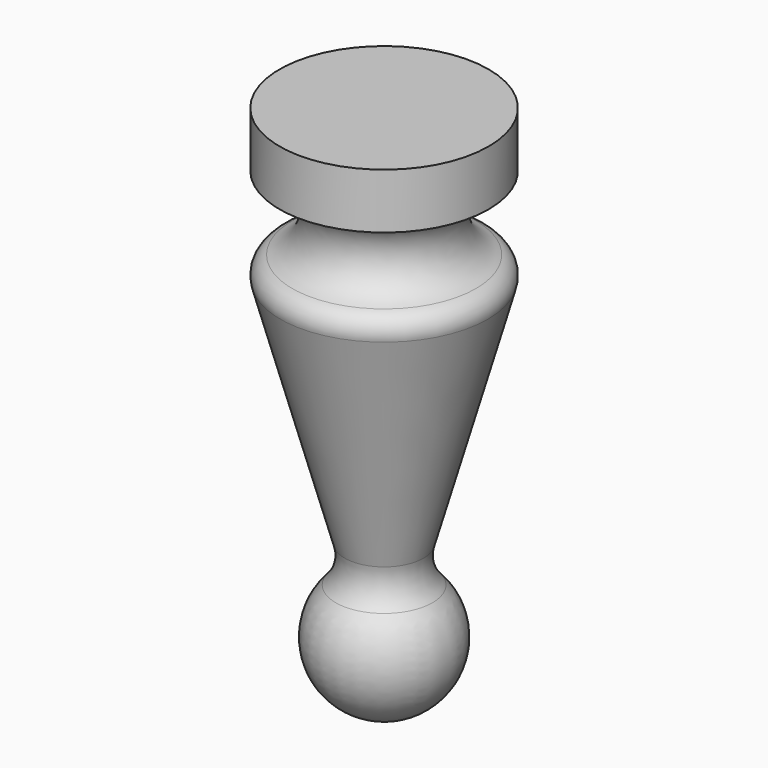
from build123d import *


with BuildPart() as part:
    # Sketch → Revolution (revolve)
    with BuildSketch(Plane.XZ):
        with BuildLine():
            Line((0, 0), (0, -28))
            ThreePointArc((0, -28), (3.213858, -25.886043), (2.545455, -22.09778))
            ThreePointArc((2.073267, -20.188708), (2.058505, -21.20529), (2.545455, -22.09778))
            Line((5.463367, -8.010997), (2.073267, -20.188708))
            ThreePointArc((5.463367, -8.010997), (5.387122, -7.281275), (4.833333, -6.8))
            ThreePointArc((5.5, -2.914382), (3.528803, -4.576178), (4.833333, -6.8))
            Line((5.5, -2.914382), (5.5, 0))
            Line((5.5, 0), (0, 0))
        make_face()
    revolve(axis=Axis((0, 0, 0), (0, 0, 1)))


solid = part.part
